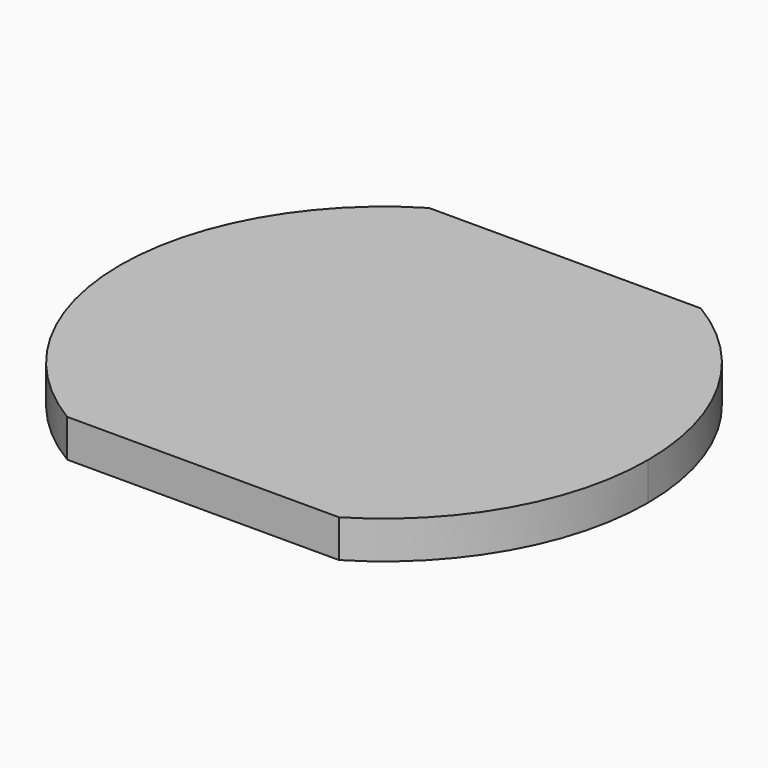
from build123d import *

# Parameters (mm, degrees)
F1_DEPTH = 2


with BuildPart() as f1:
    # F0 (on Top) → F1 (new body)
    with BuildSketch(Plane.XY):
        with BuildLine():
            ThreePointArc((7.211103, -12), (12.185143, -6.893641), (14, 0))
            ThreePointArc((14, 0), (12.185143, 6.893641), (7.211103, 12))
            Line((7.211103, 12), (0, 12))
            Line((0, 12), (-7.211103, 12))
            ThreePointArc((-7.211103, 12), (-14, 0), (-7.211103, -12))
            Line((-7.211103, -12), (7.211103, -12))
        make_face()
    extrude(amount=F1_DEPTH)


solid = f1.part
